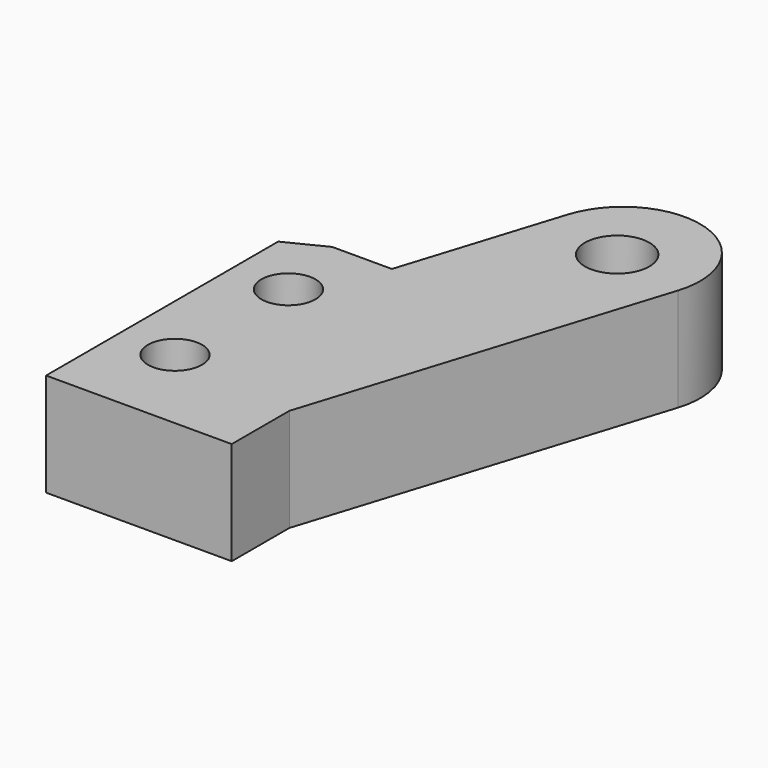
from build123d import *

# Parameters (mm, degrees)
CYLINDER749_R          = 1.25
CYLINDER749_DEPTH      = 6
CYLINDER792_R          = 6.1
CYLINDER792_DEPTH      = 8
CYLINDER789_R          = 1.05
CYLINDER789_DEPTH      = 37
CYLINDER790_R          = 1.05
CYLINDER790_DEPTH      = 37
CYLINDER791_R          = 1.05
CYLINDER791_DEPTH      = 37
CYLINDER788_R          = 1.05
CYLINDER788_DEPTH      = 37
BOX289_W               = 7.2
BOX289_H               = 12
BOX289_DEPTH           = 4
BOX284_W               = 18
BOX284_H               = 6
BOX284_DEPTH           = 4
BOX284_PLACEMENT_ANGLE = 72.5
FILLET125007020021_R   = 2.99
CHAMFER228022_SIZE2    = 1.5
CHAMFER228022_SIZE     = 0.75


with BuildPart() as cylinder749:
    # Cylinder749 → Cylinder749 (new body)
    with BuildSketch(Plane(origin=(14.35, 41, -3), x_dir=(1, 0, 0), z_dir=(0, 0, 1))):
        Circle(CYLINDER749_R)
    extrude(amount=CYLINDER749_DEPTH)


with BuildPart() as cylinder792:
    # Cylinder792 → Cylinder792 (new body)
    with BuildSketch(Plane(origin=(0, 34, 0), x_dir=(1, 0, 0), z_dir=(0, 1, 0))):
        Circle(CYLINDER792_R)
    extrude(amount=CYLINDER792_DEPTH)


with BuildPart() as cylinder789:
    # Cylinder789 → Cylinder789 (new body)
    with BuildSketch(Plane(origin=(8, 33, -19), x_dir=(1, 0, 0), z_dir=(0, 0, 1))):
        Circle(CYLINDER789_R)
    extrude(amount=CYLINDER789_DEPTH)


with BuildPart() as cylinder790:
    # Cylinder790 → Cylinder790 (new body)
    with BuildSketch(Plane(origin=(-8, 33, -19), x_dir=(1, 0, 0), z_dir=(0, 0, 1))):
        Circle(CYLINDER790_R)
    extrude(amount=CYLINDER790_DEPTH)


with BuildPart() as cylinder791:
    # Cylinder791 → Cylinder791 (new body)
    with BuildSketch(Plane(origin=(8, 27.5, -19), x_dir=(1, 0, 0), z_dir=(0, 0, 1))):
        Circle(CYLINDER791_R)
    extrude(amount=CYLINDER791_DEPTH)


with BuildPart() as fusion088026007031024007008004081011:
    # Cylinder788 → Cylinder788 (new body)
    with BuildSketch(Plane(origin=(-8, 27.5, -19), x_dir=(1, 0, 0), z_dir=(0, 0, 1))):
        Circle(CYLINDER788_R)
    extrude(amount=CYLINDER788_DEPTH)

    # Fusion088026007031024007008004081011: union Cylinder789, Cylinder790, Cylinder791
    add(cylinder789.part)
    add(cylinder790.part)
    add(cylinder791.part)


with BuildPart() as cube288:
    # Box289 → Box289 (new body)
    with BuildSketch(Plane(origin=(5.8, 24, -2), x_dir=(1, 0, 0), z_dir=(0, 0, 1))):
        with Locations((3.6, 6)):
            Rectangle(BOX289_W, BOX289_H)
    extrude(amount=BOX289_DEPTH)


with BuildPart() as cut176013009033007019019008010045:
    # Box284 → Box284 (new body)
    with BuildSketch(Plane.XY):
        with Locations((9, 3)):
            Rectangle(BOX284_W, BOX284_H)
    extrude(amount=BOX284_DEPTH)


with BuildPart() as cut176013009033007019019008010045_1:
    # Box284 placement: moved
    add(cut176013009033007019019008010045.part.moved(Location((12.75, 26, -2))).rotate(Axis((12.75, 26, -2), (0, 0, 1)), BOX284_PLACEMENT_ANGLE))

    # Fillet125007020021
    fillet125007020021_edges = [cut176013009033007019019008010045_1.edges().sort_by_distance(p)[0] for p in [
        (18.162704, 43.166905, 0),
        (12.440403, 44.97114, 0),
    ]]
    fillet(fillet125007020021_edges, radius=FILLET125007020021_R)

    # Fusion088026007031024007008004081010: union Cube288
    add(cube288.part)

    # Cut176013009033007019019008010043: cut Fusion088026007031024007008004081011
    add(fusion088026007031024007008004081011.part, mode=Mode.SUBTRACT)

    # Chamfer228022
    chamfer228022_edges = [cut176013009033007019019008010045_1.edges().sort_by_distance(p)[0] for p in [
        (5.8, 36, 0),
    ]]
    chamfer228022_side = cut176013009033007019019008010045_1.faces().sort_by_distance((5.8, 30, 0))[0]
    chamfer(chamfer228022_edges, length=CHAMFER228022_SIZE, length2=CHAMFER228022_SIZE2, reference=chamfer228022_side)

    # Cut176013009033007019019008010044: cut Cylinder792
    add(cylinder792.part, mode=Mode.SUBTRACT)

    # Cut176013009033007019019008010045: cut Cylinder749
    add(cylinder749.part, mode=Mode.SUBTRACT)


with BuildPart() as cut176013009033007019019008010045_2:
    # Cut176013009033007019019008010045 placement: moved
    add(cut176013009033007019019008010045_1.part.moved(Location((75, -93, 46))))


solid = cut176013009033007019019008010045_2.part
